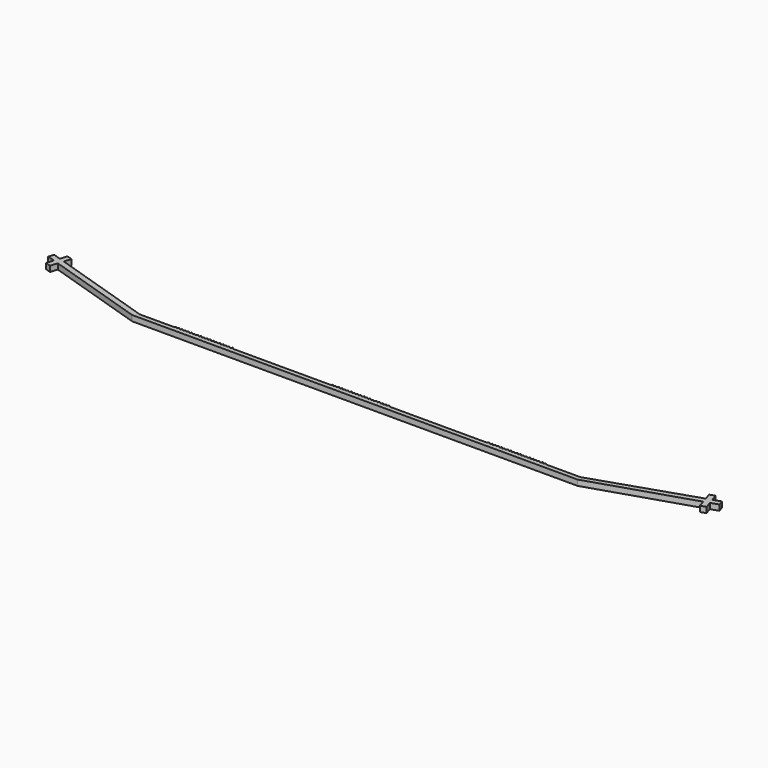
from build123d import *

# Parameters (mm, degrees)
F1_DEPTH = 4.45


with BuildPart() as f1:
    # F0 (on Top) → F1 (new body)
    with BuildSketch(Plane.XY):
        Polygon((-333.254281, 32.880334), (-253.439323, 7.28024), (102.160677, 7.28024), (181.975636, 32.880334), (183.756511, 27.327991), (187.993884, 28.687099), (186.213007, 34.239447), (192.259595, 36.178848), (190.900487, 40.41622), (184.853899, 38.476819), (183.07301, 44.029206), (178.835637, 42.670098), (180.616526, 37.117711), (101.450198, 10.937324), (73.955587, 10.937324), (73.0896, 12.078815), (72.223614, 10.937324), (71.455587, 10.937324), (70.5896, 12.078815), (69.723614, 10.937324), (68.955587, 10.937324), (68.0896, 12.078815), (67.223614, 10.937324), (66.455587, 10.937324), (65.5896, 12.078815), (64.723614, 10.937324), (63.955587, 10.937324), (63.0896, 12.078815), (62.223614, 10.937324), (61.455587, 10.937324), (60.5896, 12.078815), (59.723614, 10.937324), (58.955587, 10.937324), (58.0896, 12.078815), (57.223614, 10.937324), (56.455587, 10.937324), (55.5896, 12.078815), (54.723614, 10.937324), (53.955587, 10.937324), (53.0896, 12.078815), (52.223614, 10.937324), (51.455587, 10.937324), (50.5896, 12.078815), (49.723614, 10.937324), (48.955587, 10.937324), (48.0896, 12.078815), (47.223614, 10.937324), (46.455587, 10.937324), (45.5896, 12.078815), (44.723614, 10.937324), (43.955587, 10.937324), (43.0896, 12.078815), (42.223614, 10.937324), (41.455587, 10.937324), (40.5896, 12.078815), (39.723614, 10.937324), (38.955587, 10.937324), (38.0896, 12.078815), (37.223614, 10.937324), (36.455587, 10.937324), (35.5896, 12.078815), (34.723614, 10.937324), (33.955587, 10.937324), (33.0896, 12.078815), (32.223614, 10.937324), (31.455587, 10.937324), (30.5896, 12.078815), (29.723614, 10.937324), (28.955587, 10.937324), (28.0896, 12.078815), (27.223614, 10.937324), (-51.044413, 10.937324), (-51.9104, 12.078815), (-52.776386, 10.937324), (-53.544413, 10.937324), (-54.4104, 12.078815), (-55.276386, 10.937324), (-56.044413, 10.937324), (-56.9104, 12.078815), (-57.776386, 10.937324), (-58.544413, 10.937324), (-59.4104, 12.078815), (-60.276386, 10.937324), (-61.044413, 10.937324), (-61.9104, 12.078815), (-62.776386, 10.937324), (-63.544413, 10.937324), (-64.4104, 12.078815), (-65.276386, 10.937324), (-66.044413, 10.937324), (-66.9104, 12.078815), (-67.776386, 10.937324), (-68.544413, 10.937324), (-69.4104, 12.078815), (-70.276386, 10.937324), (-71.044413, 10.937324), (-71.9104, 12.078815), (-72.776386, 10.937324), (-73.544413, 10.937324), (-74.4104, 12.078815), (-75.276386, 10.937324), (-76.044413, 10.937324), (-76.9104, 12.078815), (-77.776386, 10.937324), (-78.544413, 10.937324), (-79.4104, 12.078815), (-80.276386, 10.937324), (-81.044413, 10.937324), (-81.9104, 12.078815), (-82.776386, 10.937324), (-83.544413, 10.937324), (-84.4104, 12.078815), (-85.276386, 10.937324), (-86.044413, 10.937324), (-86.9104, 12.078815), (-87.776386, 10.937324), (-88.544413, 10.937324), (-89.4104, 12.078815), (-90.276386, 10.937324), (-91.044413, 10.937324), (-91.9104, 12.078815), (-92.776386, 10.937324), (-93.544413, 10.937324), (-94.4104, 12.078815), (-95.276386, 10.937324), (-96.044413, 10.937324), (-96.9104, 12.078815), (-97.776386, 10.937324), (-176.044413, 10.937324), (-176.9104, 12.078815), (-177.776386, 10.937324), (-178.544413, 10.937324), (-179.4104, 12.078815), (-180.276386, 10.937324), (-181.044413, 10.937324), (-181.9104, 12.078815), (-182.776386, 10.937324), (-183.544413, 10.937324), (-184.4104, 12.078815), (-185.276386, 10.937324), (-186.044413, 10.937324), (-186.9104, 12.078815), (-187.776386, 10.937324), (-188.544413, 10.937324), (-189.4104, 12.078815), (-190.276386, 10.937324), (-191.044413, 10.937324), (-191.9104, 12.078815), (-192.776386, 10.937324), (-193.544413, 10.937324), (-194.4104, 12.078815), (-195.276386, 10.937324), (-196.044413, 10.937324), (-196.9104, 12.078815), (-197.776386, 10.937324), (-198.544413, 10.937324), (-199.4104, 12.078815), (-200.276386, 10.937324), (-201.044413, 10.937324), (-201.9104, 12.078815), (-202.776386, 10.937324), (-203.544413, 10.937324), (-204.4104, 12.078815), (-205.276386, 10.937324), (-206.044413, 10.937324), (-206.9104, 12.078815), (-207.776386, 10.937324), (-208.544413, 10.937324), (-209.4104, 12.078815), (-210.276386, 10.937324), (-211.044413, 10.937324), (-211.9104, 12.078815), (-212.776386, 10.937324), (-213.544413, 10.937324), (-214.4104, 12.078815), (-215.276386, 10.937324), (-216.044413, 10.937324), (-216.9104, 12.078815), (-217.776386, 10.937324), (-218.544413, 10.937324), (-219.4104, 12.078815), (-220.276386, 10.937324), (-221.044413, 10.937324), (-221.9104, 12.078815), (-222.776386, 10.937324), (-250.270997, 10.937324), (-252.080213, 11.517617), (-331.895172, 37.117711), (-330.114282, 42.670098), (-334.351655, 44.029206), (-336.132544, 38.476819), (-342.179132, 40.41622), (-343.53824, 36.178848), (-337.491652, 34.239447), (-339.272529, 28.687098), (-335.035157, 27.327991), align=None)
    extrude(amount=F1_DEPTH)


solid = f1.part
